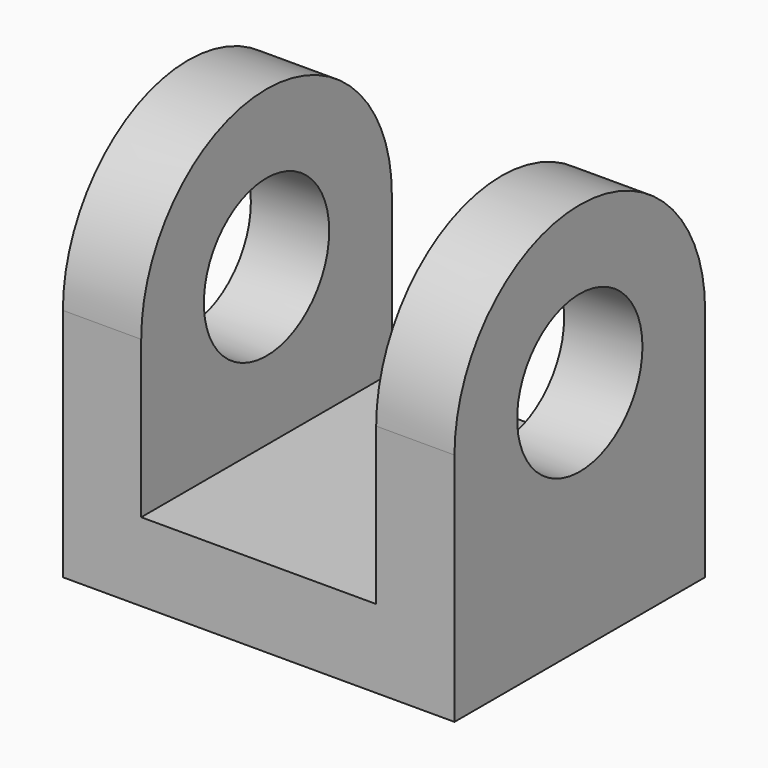
from build123d import *

# Parameters (mm, degrees)
F0_W     = 5
F0_H     = 4
F1_DEPTH = 1
F2_W     = 1
F2_H     = 4
F3_DEPTH = 5
F5_DEPTH = 25
F4_R     = 1
F6_DEPTH = 25


with BuildPart() as f1:
    # F0 (on Top) → F1 (new body)
    with BuildSketch(Plane.XY):
        with Locations((2.5, 2)):
            Rectangle(F0_W, F0_H)
    extrude(amount=F1_DEPTH)

    # F2 (on face) → F3 (join)
    with BuildSketch(Plane.XY.offset(1)):
        with Locations((0.5, 2)):
            Rectangle(F2_W, F2_H)
        with Locations((4.5, 2)):
            Rectangle(F2_W, F2_H)
    extrude(amount=F3_DEPTH)

    # F4 (on face) → F5 (cut)
    with BuildSketch(Plane.YZ.offset(5)):
        with BuildLine():
            Line((0, 6), (0, 3))
            ThreePointArc((0, 3), (2, 5), (4, 3))
            Line((4, 3), (4, 6))
            Line((4, 6), (0, 6))
        make_face()
    extrude(amount=-F5_DEPTH, mode=Mode.SUBTRACT)

    # F4 (on face) → F6 (cut)
    with BuildSketch(Plane.YZ.offset(5)):
        with Locations((2, 3)):
            Circle(F4_R)
    extrude(amount=-F6_DEPTH, mode=Mode.SUBTRACT)


solid = f1.part
